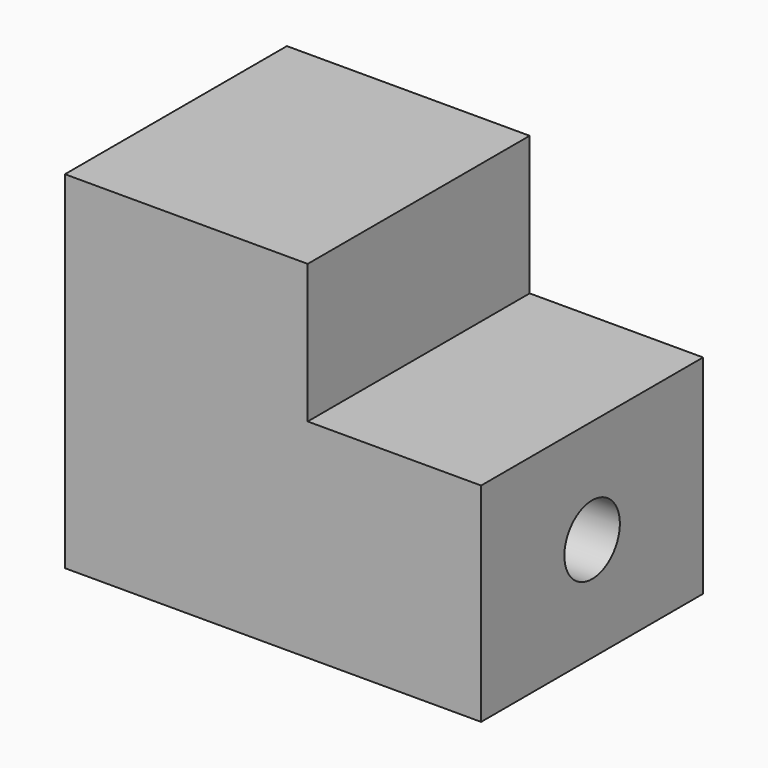
from build123d import *

# Parameters (mm, degrees)
F0_W     = 152.4
F0_H     = 101.6
F1_DEPTH = 127
F2_W     = 63.5
F2_H     = 50.8
F3_DEPTH = 101.6
F4_W     = 63.5
F4_H     = 50.8
F5_DEPTH = 101.6
F7_D     = 25.4


with BuildPart() as f1:
    # F0 (on Top) → F1 (new body)
    with BuildSketch(Plane.XY):
        with Locations((76.2, 50.8)):
            Rectangle(F0_W, F0_H)
    extrude(amount=F1_DEPTH)

    # F2 (on face) → F3 (join)
    with BuildSketch(Plane.XZ):
        with Locations((120.65, 101.6)):
            Rectangle(F2_W, F2_H)
    extrude(amount=-F3_DEPTH)

    # F4 (on face) → F5 (cut)
    with BuildSketch(Plane.XZ):
        with Locations((120.65, 101.6)):
            Rectangle(F4_W, F4_H)
    extrude(amount=-F5_DEPTH, mode=Mode.SUBTRACT)

    # F7 (through all)
    with Locations(Plane.YZ.offset(152.4)):
        with Locations((50.8, 38.1)):
            Hole(F7_D / 2)


solid = f1.part
